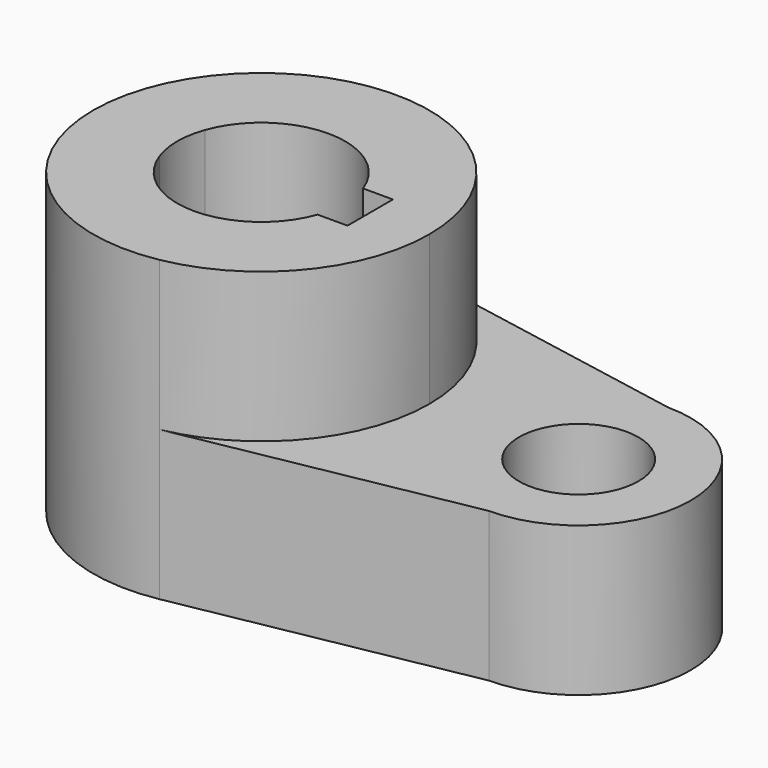
from build123d import *

# Parameters (mm, degrees)
F0_R     = 10.16
F1_DEPTH = 25.4
F2_DEPTH = 50.8


with BuildPart() as f1:
    # F0 (on Top) → F1 (new body)
    with BuildSketch(Plane.XY):
        with BuildLine():
            ThreePointArc((5.211817, 28.095686), (21.971098, 18.270235), (28.575, 0))
            ThreePointArc((28.575, 0), (21.971098, -18.270235), (5.211816, -28.095686))
            Line((5.211816, -28.095686), (53.975, -19.05))
            ThreePointArc((53.975, -19.05), (73.025, 0), (53.975, 19.05))
            Line((53.975, 19.05), (5.211817, 28.095686))
        make_face()
        with Locations((53.975, 0)):
            Circle(F0_R, mode=Mode.SUBTRACT)
    extrude(amount=F1_DEPTH)

    # F0 (on Top) → F2 (join)
    with BuildSketch(Plane.XY):
        with BuildLine():
            ThreePointArc((5.211816, -28.095686), (21.971098, -18.270235), (28.575, 0))
            ThreePointArc((28.575, 0), (21.971098, 18.270235), (5.211817, 28.095686))
            ThreePointArc((5.211817, 28.095686), (-28.575, 0), (5.211816, -28.095686))
        make_face()
        with BuildLine():
            ThreePointArc((-13.447765, 4.826), (0, 14.2875), (13.447765, 4.826))
            Line((13.447765, 4.826), (18.5293, 4.826))
            Line((18.5293, 4.826), (18.5293, -4.826))
            Line((18.5293, -4.826), (13.447765, -4.826))
            ThreePointArc((13.447765, -4.826), (0, -14.2875), (-13.447765, -4.826))
            Line((-13.447765, -4.826), (-18.5293, -4.826))
            Line((-18.5293, -4.826), (-18.5293, 4.826))
            Line((-18.5293, 4.826), (-13.447765, 4.826))
        make_face(mode=Mode.SUBTRACT)
        with BuildLine():
            ThreePointArc((-13.447765, -4.826), (-14.2875, 0), (-13.447765, 4.826))
            Line((-13.447765, 4.826), (-18.5293, 4.826))
            Line((-18.5293, 4.826), (-18.5293, -4.826))
            Line((-18.5293, -4.826), (-13.447765, -4.826))
        make_face()
    extrude(amount=F2_DEPTH)


solid = f1.part
